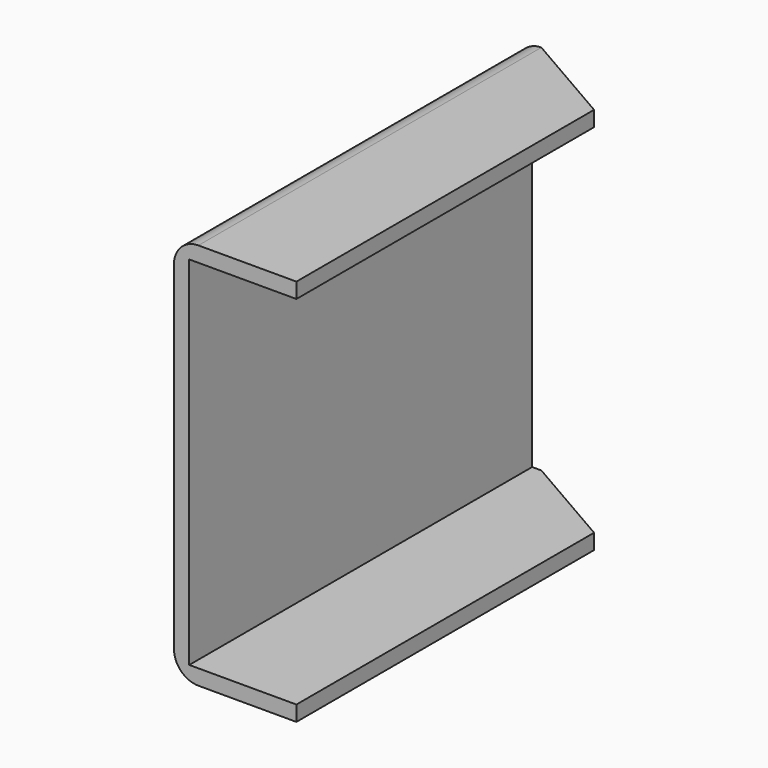
from build123d import *

# Parameters (mm, degrees)
F1_DEPTH = 88.9
F2_R     = 5.08
F4_DEPTH = 103.378


with BuildPart() as f1:
    # F0 (on Front) → F1 (new body)
    with BuildSketch(Plane.XZ):
        Polygon((6.59128, 64.89383), (6.59128, 68.06883), (-18.80872, 68.06883), (-18.80872, -12.32217), (6.59128, -12.32217), (6.59128, -9.14717), (-15.63372, -9.14717), (-15.63372, 64.89383), align=None)
    extrude(amount=F1_DEPTH)

    # F2
    f2_edges = [f1.edges().sort_by_distance(p)[0] for p in [
        (-18.80872, -44.45, 68.06883),
        (-18.80872, -44.45, -12.32217),
    ]]
    fillet(f2_edges, radius=F2_R)

    # F3 (on face) → F4 (cut)
    with BuildSketch(Plane.XY.offset(68.06883)):
        Polygon((6.59128, 0), (-13.72872, 0), (6.59128, -11.731757), align=None)
    extrude(amount=-F4_DEPTH, mode=Mode.SUBTRACT)


solid = f1.part
